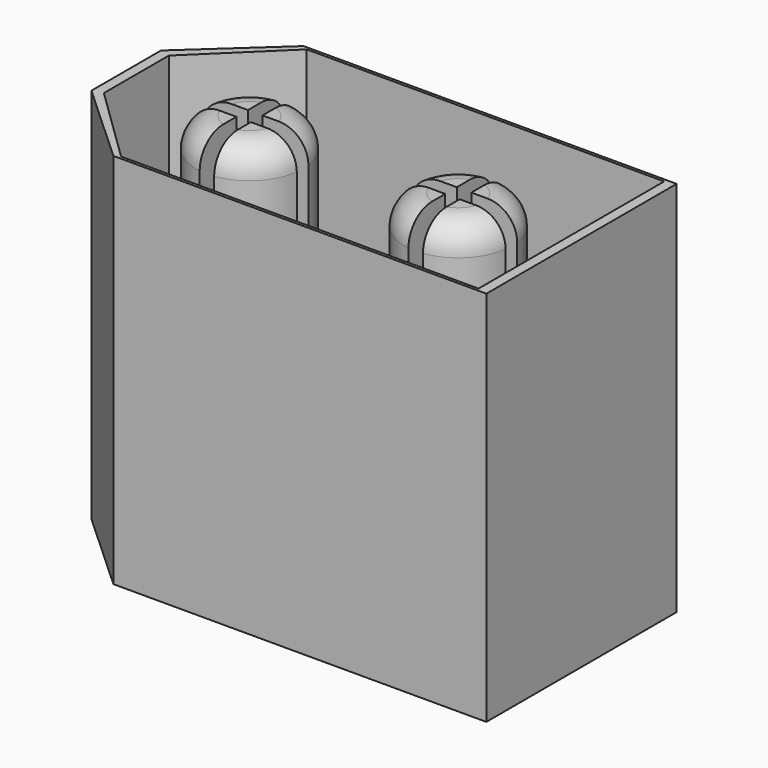
from build123d import *

# Parameters (mm, degrees)
PAD_DEPTH       = 13
POCKET_DEPTH    = 10
SKETCH003_R     = 1.85
PAD001_DEPTH    = 7
FILLET_R        = 1
POCKET001_DEPTH = 5


with BuildPart() as part:
    # Sketch → Pad (new body)
    with BuildSketch(Plane.XY):
        Polygon((7.85, 4.1), (-5.010546, 4.1), (-7.85, 1.5), (-7.85, -1.5), (-5.010546, -4.1), (7.85, -4.1), align=None)
    extrude(amount=PAD_DEPTH)

    # Sketch002 → Pocket (cut)
    with BuildSketch(Plane.XY.offset(16)):
        Polygon((7.5, 4), (-4.825509, 4), (-7.5, 1.4), (-7.5, -1.4), (-4.825509, -4), (7.5, -4), align=None)
    extrude(amount=-POCKET_DEPTH, mode=Mode.SUBTRACT)

    # Sketch003 (on Face15 of Pocket) → Pad001 (join)
    with BuildSketch(Plane.XY.offset(6)):
        with Locations((-3.6, 0)):
            Circle(SKETCH003_R)
        with Locations((3.6, 0)):
            Circle(SKETCH003_R)
    extrude(amount=PAD001_DEPTH)

    # Fillet
    fillet_edges = [part.edges().sort_by_distance(p)[0] for p in [
        (-5.45, 0, 13),
        (1.75, 0, 13),
    ]]
    fillet(fillet_edges, radius=FILLET_R)

    # Sketch004 (on Face4 of Fillet) → Pocket001 (cut)
    with BuildSketch(Plane.XY.offset(13)):
        Polygon((-3.85, 2.25), (-3.35, 2.25), (-3.35, 0.25), (-1.35, 0.25), (-1.35, -0.25), (-3.35, -0.25), (-3.35, -2.25), (-3.85, -2.25), (-3.85, -0.25), (-5.85, -0.25), (-5.85, 0.25), (-3.85, 0.25), align=None)
        Polygon((3.85, 2.25), (3.35, 2.25), (3.35, 0.25), (1.35, 0.25), (1.35, -0.25), (3.35, -0.25), (3.35, -2.25), (3.85, -2.25), (3.85, -0.25), (5.85, -0.25), (5.85, 0.25), (3.85, 0.25), align=None)
    extrude(amount=-POCKET001_DEPTH, mode=Mode.SUBTRACT)


solid = part.part
